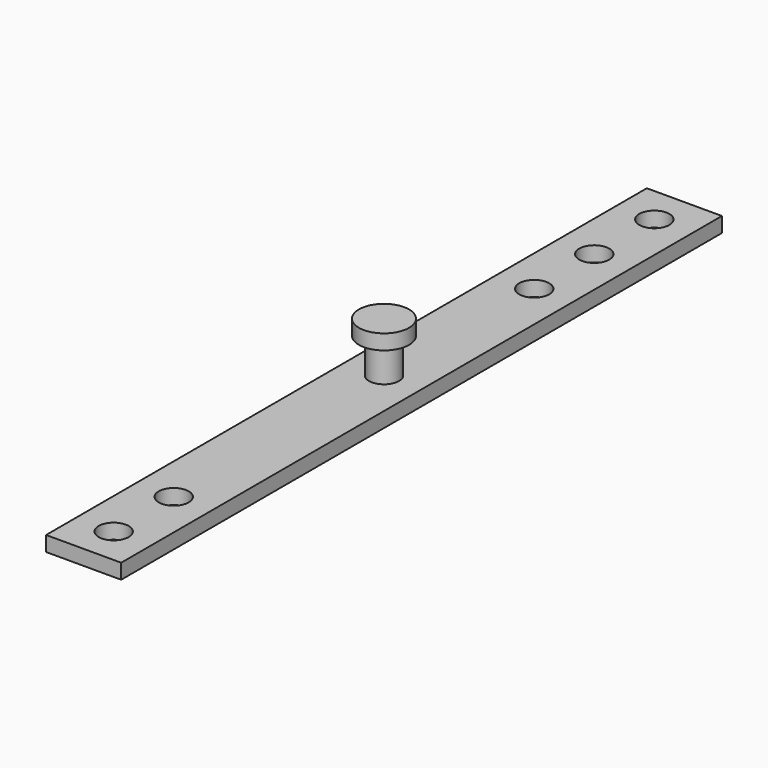
from build123d import *

# Parameters (mm, degrees)
F0_W     = 15
F0_H     = 150
F0_R     = 3
F1_DEPTH = 3
F2_R     = 3
F3_DEPTH = 10
F4_R     = 5
F5_DEPTH = 3


with BuildPart() as f1:
    # F0 (on Top) → F1 (new body)
    with BuildSketch(Plane.XY):
        Rectangle(F0_W, F0_H)
        with Locations((0, -67.5)):
            Circle(F0_R, mode=Mode.SUBTRACT)
        with Locations((0, -52.5)):
            Circle(F0_R, mode=Mode.SUBTRACT)
        with Locations((0, 37.5)):
            Circle(F0_R, mode=Mode.SUBTRACT)
        with Locations((0, 52.5)):
            Circle(F0_R, mode=Mode.SUBTRACT)
        with Locations((0, 67.5)):
            Circle(F0_R, mode=Mode.SUBTRACT)
    extrude(amount=F1_DEPTH)


with BuildPart() as f3:
    # F2 (on Top) → F3 (new body)
    with BuildSketch(Plane.XY):
        Circle(F2_R)
    extrude(amount=F3_DEPTH)

    # F4 (on face) → F5 (join)
    with BuildSketch(Plane.XY.offset(10)):
        Circle(F4_R)
    extrude(amount=F5_DEPTH)


solid = Compound([f1.part, f3.part])
